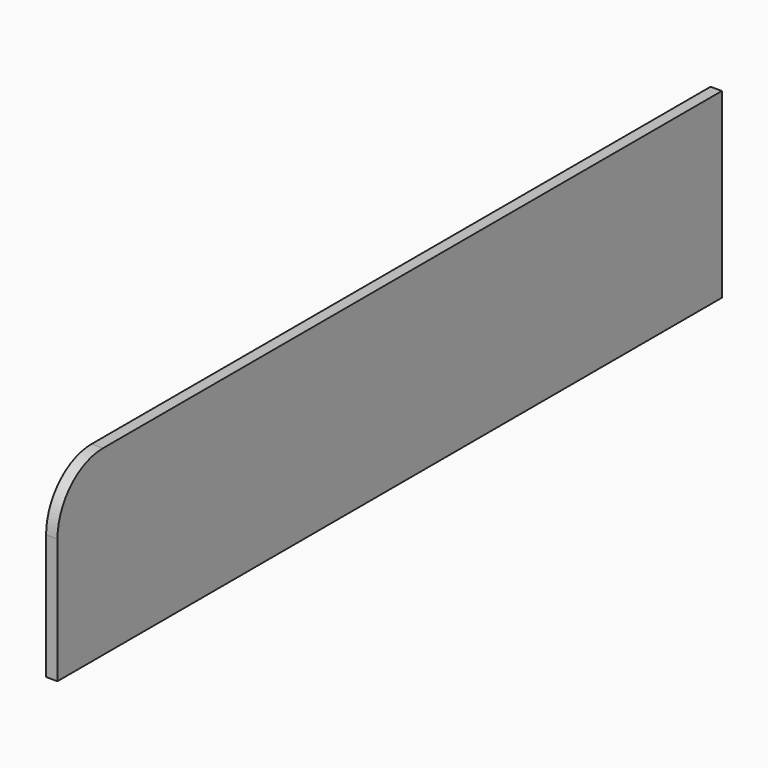
from build123d import *

# Parameters (mm, degrees)
F0_W     = 730
F0_H     = 160
F1_DEPTH = 10
F2_R     = 50


with BuildPart() as f1:
    # F0 (on Right) → F1 (new body)
    with BuildSketch(Plane.YZ):
        Rectangle(F0_W, F0_H)
    extrude(amount=F1_DEPTH)

    # F2
    f2_edges = [f1.edges().sort_by_distance(p)[0] for p in [
        (5, -365, 80),
    ]]
    fillet(f2_edges, radius=F2_R)


solid = f1.part
